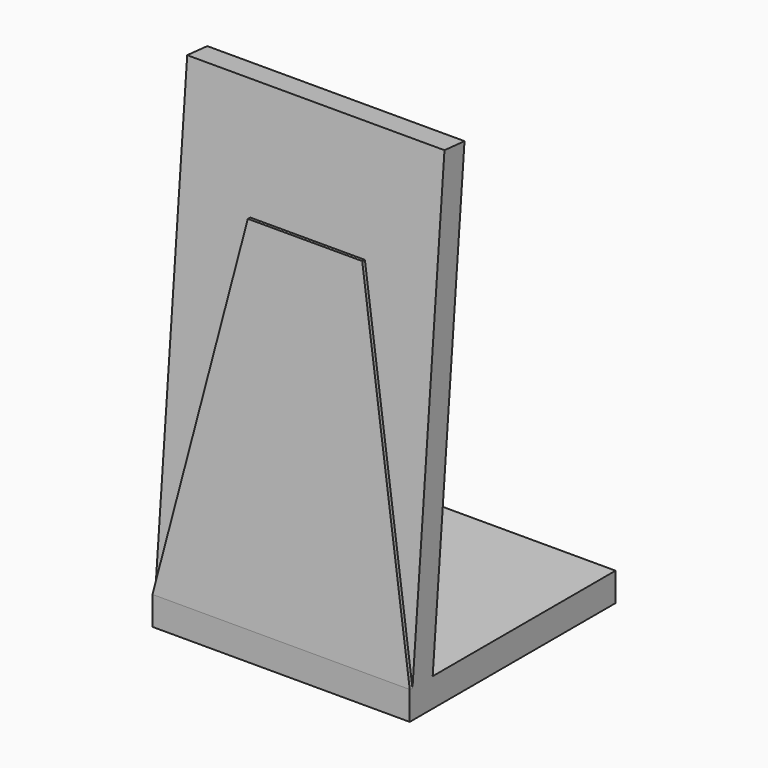
from build123d import *

# Parameters (mm, degrees)
F1_DEPTH = 28.575
F3_DEPTH = 0.381


with BuildPart() as f1:
    # F0 (on Right) → F1 (new body)
    with BuildSketch(Plane.YZ):
        Polygon((-14.2875, 3.175), (-14.2875, 0), (14.2875, 0), (14.2875, 3.175), (-11.1003720158, 3.175), align=None)
        Polygon((-9.8430758929, 53.975), (-14.2875, 3.175), (-11.1003720158, 3.175), (-6.6801577264, 53.6982805168), align=None)
    extrude(amount=F1_DEPTH)

    # F2 (on face) → F3 (cut)
    with BuildSketch(Plane(origin=(0, -14.4546368676, 1.2646168613), x_dir=(1, 0, 0), z_dir=(0, -0.9961946981, 0.0871557427))):
        Polygon((0, 1.9176804919), (7.9375, 40.0176804919), (20.6375, 40.0176804919), (28.575, 1.9176804919), (28.575, 52.9117282391), (0, 52.9117282391), align=None)
    extrude(amount=-F3_DEPTH, mode=Mode.SUBTRACT)


solid = f1.part
